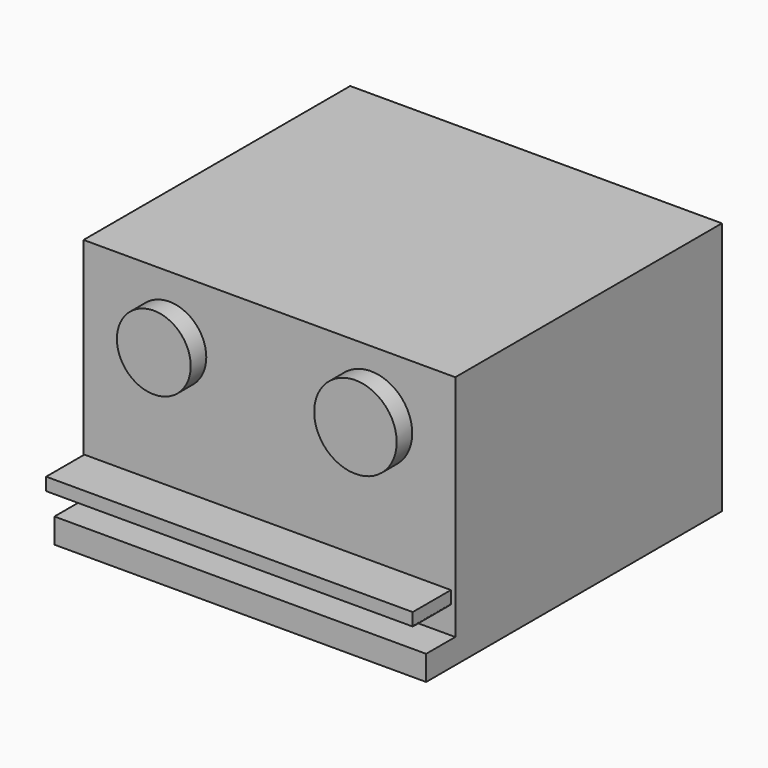
from build123d import *

# Parameters (mm, degrees)
F0_W      = 152.273536
F0_H      = 151.443705
F1_DEPTH  = 10.161169
F2_W      = 152.273536
F2_H      = 136.526108
F3_DEPTH  = 93.683697
F4_R      = 15.124421
F4_R_2    = 16.897166
F5_DEPTH  = 7.964259
F7_W      = 150.503926
F7_H      = 0.129588
F8_DEPTH  = 19.222174
F9_W      = 150.153473
F9_H      = 5.222723
F10_DEPTH = 19.553745


with BuildPart() as f1:
    # F0 (on Top) → F1 (new body)
    with BuildSketch(Plane.XY):
        with Locations((-0.207484, -0.41493)):
            Rectangle(F0_W, F0_H)
    extrude(amount=-F1_DEPTH)

    # F2 (on face) → F3 (join)
    with BuildSketch(Plane.XY):
        with Locations((-0.207484, 7.043868)):
            Rectangle(F2_W, F2_H)
    extrude(amount=F3_DEPTH)

    # F4 (on face) → F5 (join)
    with BuildSketch(Plane.XZ.offset(61.219186)):
        with Locations((-41.194946, 67.733906)):
            Circle(F4_R)
        with Locations((41.393492, 67.733906)):
            Circle(F4_R_2)
    extrude(amount=F5_DEPTH)

    # F7 (on face) → F8 (join)
    with BuildSketch(Plane.XZ.offset(61.219186)):
        with Locations((-1.064215, 11.224758)):
            Rectangle(F7_W, F7_H)
    extrude(amount=F8_DEPTH)

    # F9 (on face) → F10 (join)
    with BuildSketch(Plane.XZ.offset(61.219186)):
        with Locations((-0.942595, 13.746939)):
            Rectangle(F9_W, F9_H)
    extrude(amount=F10_DEPTH)


solid = f1.part
